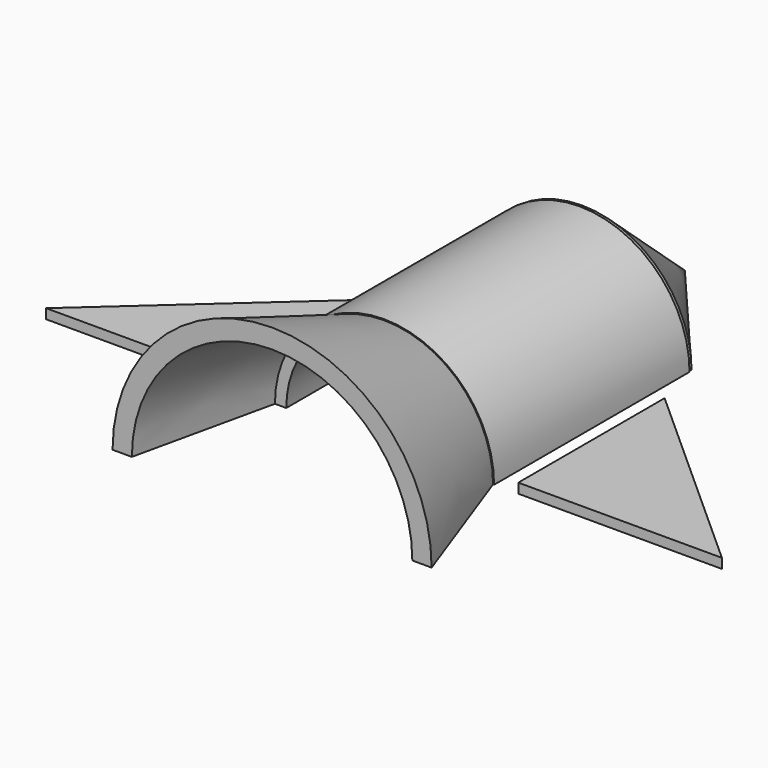
from build123d import *

# Parameters (mm, degrees)
F0_W     = 6.428055
F0_H     = 127
F1_ANGLE = 180
F4_ANGLE = -180
F6_ANGLE = -180
F7_DEPTH = 5.08


with BuildPart() as f1:
    # F0 (on Top) → F1 (revolve)
    with BuildSketch(Plane.XY):
        with Locations((-54.014027, 63.5)):
            Rectangle(F0_W, F0_H)
    revolve(axis=Axis((0, 11.776872, 0), (0, 1, 0)), revolution_arc=F1_ANGLE)


with BuildPart() as f4:
    # F3 (on Top) → F4 (revolve)
    with BuildSketch(Plane.XY):
        Polygon((0, 195.478752), (-56.985948, 128.63642), (-50.919659, 128.63642), align=None)
    revolve(axis=Axis((0, 172.260292, 0), (0, -1, 0)), revolution_arc=F4_ANGLE)


with BuildPart() as f6:
    # F5 (on Top) → F6 (revolve)
    with BuildSketch(Plane.XY):
        Polygon((-72.905682, -72.71868), (-56.701727, 0), (-82.936764, -72.71868), align=None)
    revolve(axis=Axis((0, -10.314184, 0), (0, -1, 0)), revolution_arc=F6_ANGLE)


with BuildPart() as f7:
    # F2 (on Top) → F7 (new body)
    with BuildSketch(Plane.XY):
        Polygon((-175.665453, 0), (-69.804244, 0), (-69.804244, 95.076967), align=None)
        Polygon((69.804244, 95.076967), (69.804244, 0), (175.665453, 0), align=None)
    extrude(amount=F7_DEPTH)


solid = Compound([f1.part, f4.part, f6.part, f7.part])
